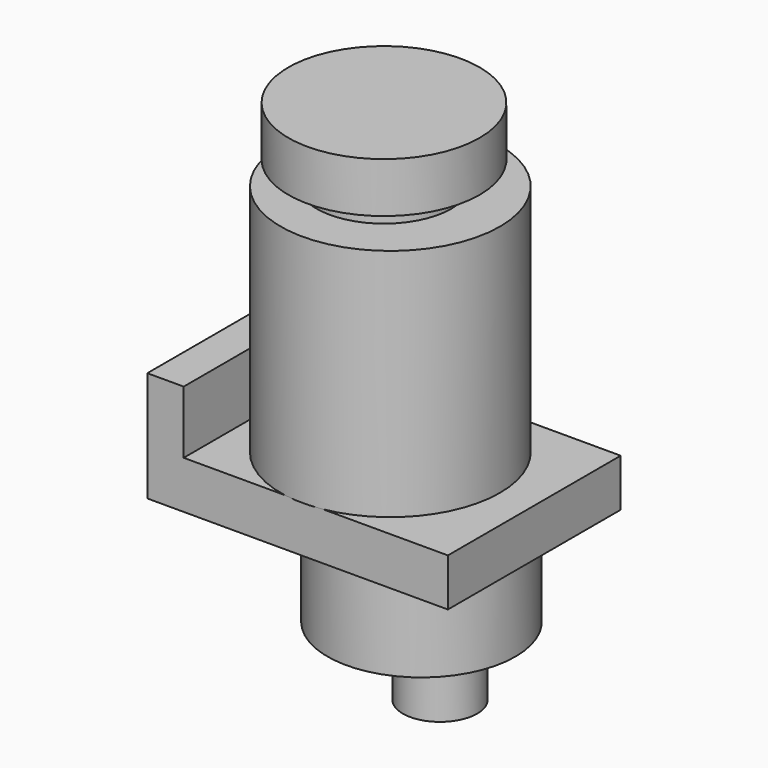
from build123d import *

# Parameters (mm, degrees)
F0_R      = 44.4398
F1_DEPTH  = 94.996
F2_W      = 121.819742
F2_H      = 87.529742
F3_DEPTH  = 19.304
F4_R      = 38.081956
F5_DEPTH  = 37.084
F6_R      = 15.067271
F7_DEPTH  = 25.4
F8_R      = 27.350413
F9_DEPTH  = 8.636
F10_R     = 38.756929
F11_DEPTH = 20.32
F12_W     = 14.738686
F12_H     = 87.529742
F13_DEPTH = 25.4


with BuildPart() as f1:
    # F0 (on Top) → F1 (new body)
    with BuildSketch(Plane.XY):
        with Locations((2.556712, 0)):
            Circle(F0_R)
    extrude(amount=F1_DEPTH)

    # F2 (on face) → F3 (join)
    with BuildSketch(Plane(origin=(0, 0, 0), x_dir=(1, 0, 0), z_dir=(0, 0, -1))):
        Rectangle(F2_W, F2_H)
    extrude(amount=F3_DEPTH)

    # F4 (on face) → F5 (join)
    with BuildSketch(Plane(origin=(0, 0, -19.304), x_dir=(1, 0, 0), z_dir=(0, 0, -1))):
        with Locations((15.189868, 0)):
            Circle(F4_R)
    extrude(amount=F5_DEPTH)

    # F6 (on face) → F7 (join)
    with BuildSketch(Plane(origin=(0, 0, -56.388), x_dir=(1, 0, 0), z_dir=(0, 0, -1))):
        with Locations((22.709604, 0)):
            Circle(F6_R)
    extrude(amount=F7_DEPTH)

    # F8 (on face) → F9 (join)
    with BuildSketch(Plane.XY.offset(94.996)):
        Circle(F8_R)
    extrude(amount=F9_DEPTH)

    # F10 (on face) → F11 (join)
    with BuildSketch(Plane.XY.offset(103.632)):
        Circle(F10_R)
    extrude(amount=F11_DEPTH)

    # F12 (on face) → F13 (join)
    with BuildSketch(Plane.XY):
        with Locations((-53.540528, 0)):
            Rectangle(F12_W, F12_H)
    extrude(amount=F13_DEPTH)


solid = f1.part
